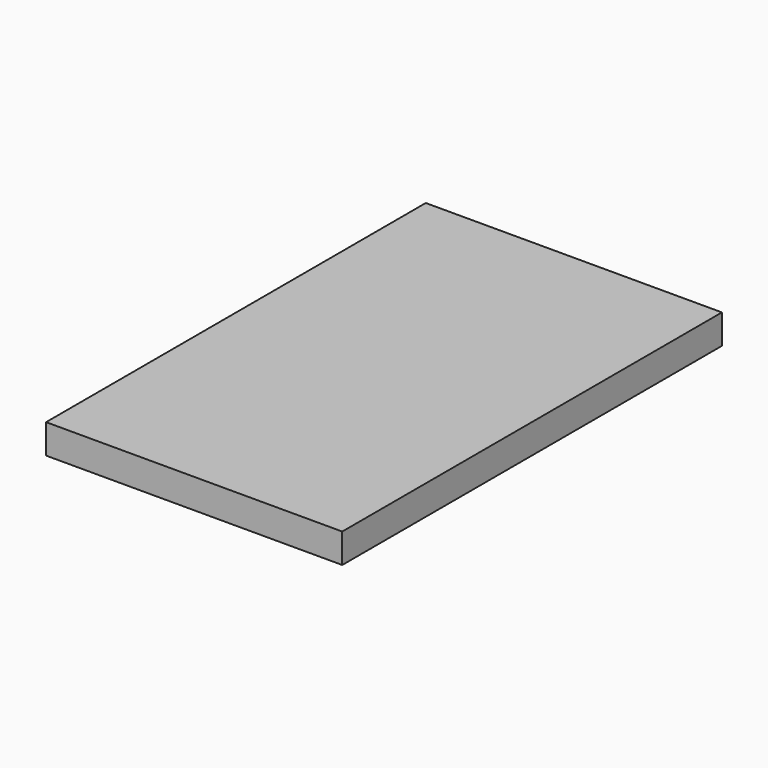
from build123d import *

# Parameters (mm, degrees)
F0_W     = 34.730464
F0_H     = 55.657405
F1_DEPTH = 3.455129
F2_W     = 29.630077
F2_H     = 14.167171
F3_DEPTH = 0.495501


with BuildPart() as f1:
    # F0 (on Top) → F1 (new body)
    with BuildSketch(Plane.XY):
        with Locations((17.365232, 27.828702)):
            Rectangle(F0_W, F0_H)
    extrude(amount=-F1_DEPTH)

    # F2 (on Top) → F3 (join)
    with BuildSketch(Plane.XY):
        with Locations((17.609336, 46.406021)):
            Rectangle(F2_W, F2_H)
    extrude(amount=-F3_DEPTH)


solid = f1.part
